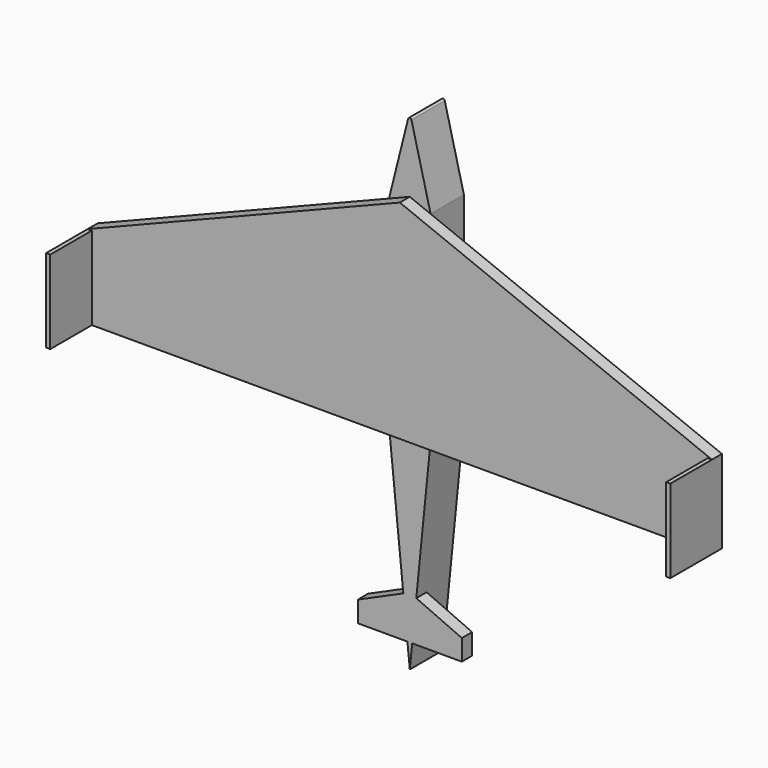
from build123d import *

# Parameters (mm, degrees)
F1_DEPTH = 3
F2_W     = 1
F2_H     = 20
F3_DEPTH = 12.5
F5_DEPTH = 10
F6_DEPTH = 10
F8_DEPTH = 3.1
F9_R     = 0.4162523321


with BuildPart() as f1:
    # F0 (on Front) → F1 (new body)
    with BuildSketch(Plane.XZ):
        Polygon((0, 54.4300840236), (-75, 24.4300840236), (-75, 4.4300840236), (0, 4.4300840236), align=None)
        Polygon((75, 24.4300840236), (0, 54.4300840236), (0, 4.4300840236), (75, 4.4300840236), align=None)
    extrude(amount=F1_DEPTH)

    # F2 (on face) → F3 (join)
    with BuildSketch(Plane.XZ.offset(3)):
        with Locations((-74.5, 14.4300840236)):
            Rectangle(F2_W, F2_H)
        with Locations((74.5, 14.4300840236)):
            Rectangle(F2_W, F2_H)
    extrude(amount=F3_DEPTH)

    # F4 (on face) → F5 (join)
    with BuildSketch(Plane(origin=(0, 0, 0), x_dir=(-1, 0, 0), z_dir=(0, 1, 0))):
        Polygon((-5, 4.4300840236), (0, 4.4300840236), (5, 4.4300840236), (5, 52.4300840236), (0, 52.4300840236), (-5, 52.4300840236), align=None)
    extrude(amount=F5_DEPTH)

    # F4 (on face) → F6 (join)
    with BuildSketch(Plane(origin=(0, 0, 0), x_dir=(-1, 0, 0), z_dir=(0, 1, 0))):
        Polygon((-5, 4.4300840236), (0, 4.4300840236), (5, 4.4300840236), (5, 52.4300840236), (0, 52.4300840236), (-5, 52.4300840236), align=None)
        Polygon((0, -45.5699159764), (0, 4.4300840236), (-5, 4.4300840236), align=None)
        Polygon((5, 4.4300840236), (0, 4.4300840236), (0, -45.5699159764), align=None)
        Polygon((0, 52.4300840236), (5, 52.4300840236), (0, 72.4300840236), align=None)
        Polygon((0, 72.4300840236), (-5, 52.4300840236), (0, 52.4300840236), align=None)
    extrude(amount=F6_DEPTH)

    # F7 (on face) → F8 (join)
    with BuildSketch(Plane.XZ):
        Polygon((-12.5, -39.854593575), (-0.5715322401, -39.854593575), (-1.5591000635, -29.9789153418), (-12.5, -34.854593575), align=None)
        Polygon((1.5591000635, -29.9789153418), (0.5715322401, -39.854593575), (12.5, -39.854593575), (12.5, -34.854593575), align=None)
    extrude(amount=-F8_DEPTH)

    # F9
    f9_edges = [f1.edges().sort_by_distance(p)[0] for p in [
        (0, 5, 72.430084),
    ]]
    fillet(f9_edges, radius=F9_R)


solid = f1.part
